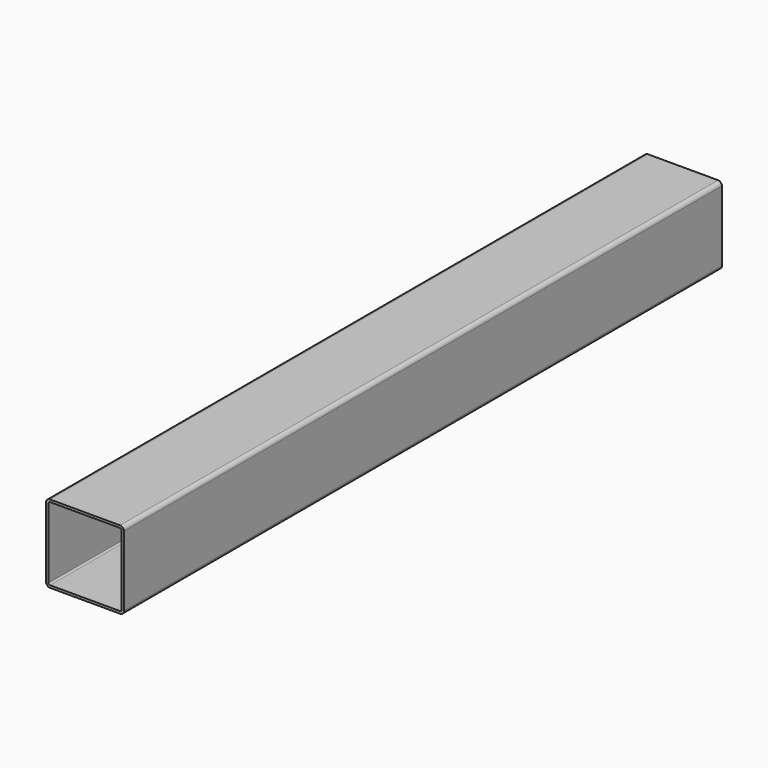
from build123d import *

# Parameters (mm, degrees)
F1_DEPTH = 960


with BuildPart() as f1:
    # F0 (on Front) → F1 (new body)
    with BuildSketch(Plane.XZ):
        with BuildLine():
            ThreePointArc((50, 45), (48.535534, 48.535534), (45, 50))
            Line((45, 50), (-45, 50))
            ThreePointArc((-45, 50), (-48.535534, 48.535534), (-50, 45))
            Line((-50, 45), (-50, -45))
            ThreePointArc((-50, -45), (-48.535534, -48.535534), (-45, -50))
            Line((-45, -50), (45, -50))
            ThreePointArc((45, -50), (48.535534, -48.535534), (50, -45))
            Line((50, -45), (50, 45))
        make_face()
        with BuildLine():
            ThreePointArc((-47, 45), (-46.414214, 46.414214), (-45, 47))
            Line((-45, 47), (45, 47))
            ThreePointArc((45, 47), (46.414214, 46.414214), (47, 45))
            Line((47, 45), (47, -45))
            ThreePointArc((47, -45), (46.414214, -46.414214), (45, -47))
            Line((45, -47), (-45, -47))
            ThreePointArc((-45, -47), (-46.414214, -46.414214), (-47, -45))
            Line((-47, -45), (-47, 45))
        make_face(mode=Mode.SUBTRACT)
    extrude(amount=-F1_DEPTH)


solid = f1.part
